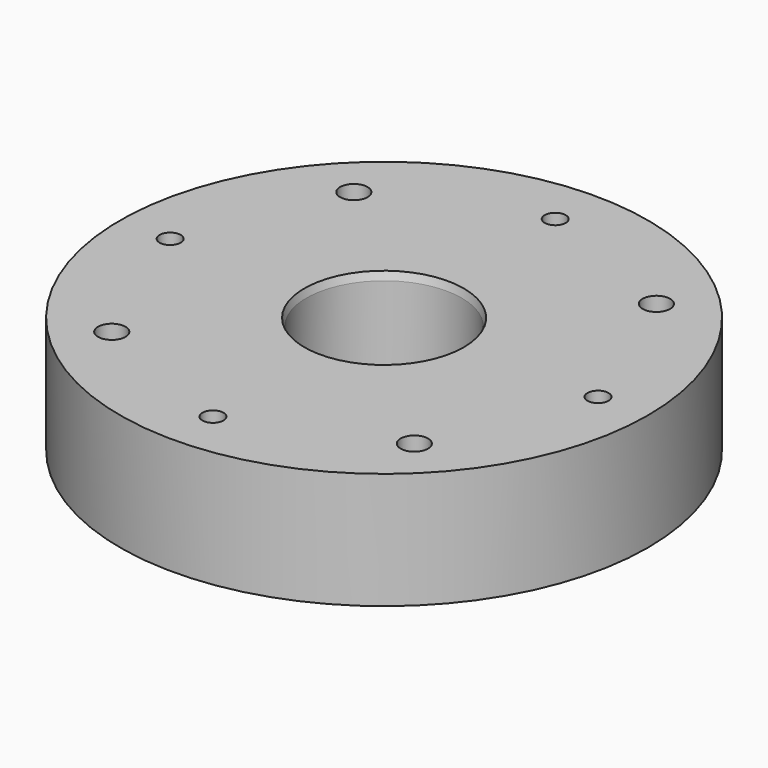
from build123d import *

# Parameters (mm, degrees)
F0_R     = 43.18
F0_R_2   = 12.7
F1_DEPTH = 19.05
F2_SIZE2 = 0.3402954744
F2_SIZE  = 1.27
F4_D     = 4.3942
F4_DEPTH = 6.35
F4_TIP   = 1.3201508661
F6_D     = 3.4544
F6_DEPTH = 15.24
F6_TIP   = 1.0378064612
F8_D     = 4.4958


with BuildPart() as f1:
    # F0 (on Top) → F1 (new body)
    with BuildSketch(Plane.XY):
        Circle(F0_R)
        Circle(F0_R_2, mode=Mode.SUBTRACT)
    extrude(amount=F1_DEPTH)

    # F2
    f2_edges = [f1.edges().sort_by_distance(p)[0] for p in [
        (-12.7, 0, 19.05),
        (-12.7, 0, 0),
    ]]
    f2_side = f1.faces().sort_by_distance((-12.7, 0, 9.525))[0]
    chamfer(f2_edges, length=F2_SIZE, length2=F2_SIZE2, reference=f2_side)

    # F4
    with Locations(Plane(origin=(0, 0, 0), x_dir=(1, 0, 0), z_dir=(0, 0, -1))):
        with Locations((0, -17.78), (-17.78, 0), (0, 17.78), (17.78, 0)):
            Hole(F4_D / 2, depth=F4_DEPTH)
            with Locations((0, 0, -(F4_DEPTH + F4_TIP / 2))):  # 118° drill point
                Cone(0, F4_D / 2, F4_TIP, mode=Mode.SUBTRACT)

    # F6
    with Locations(Plane.XY.offset(19.05)):
        with Locations((35, 0), (0, -35), (-35, 0), (0, 35)):
            Hole(F6_D / 2, depth=F6_DEPTH)
            with Locations((0, 0, -(F6_DEPTH + F6_TIP / 2))):  # 118° drill point
                Cone(0, F6_D / 2, F6_TIP, mode=Mode.SUBTRACT)

    # F8 (through all)
    with Locations(Plane.XY.offset(19.05)):
        with Locations((24.7487373415, -24.7487373415), (-24.7487373415, -24.7487373415), (-24.7487373415, 24.7487373415), (24.7487373415, 24.7487373415)):
            Hole(F8_D / 2)


solid = f1.part
